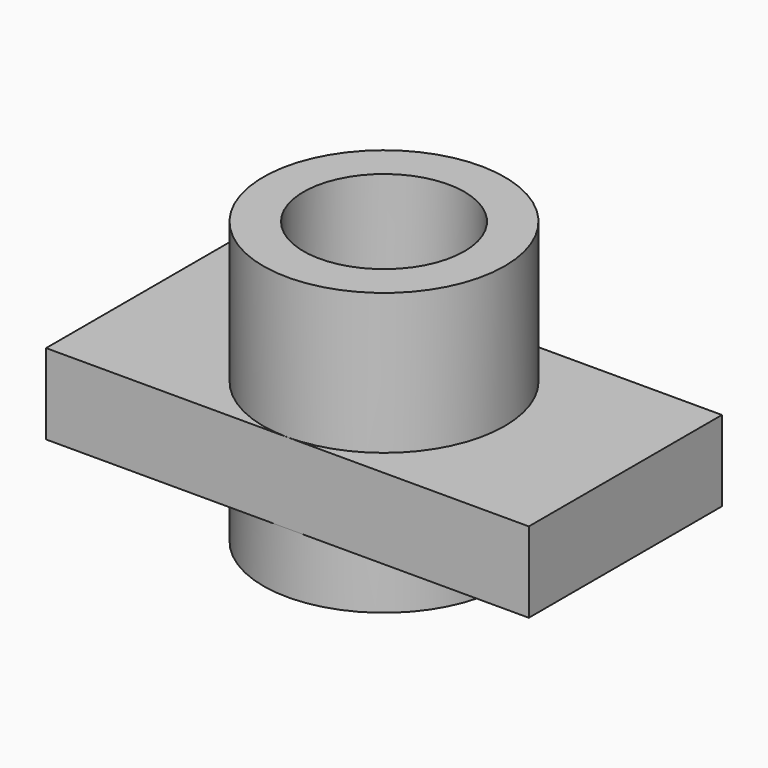
from build123d import *

# Parameters (mm, degrees)
F0_W     = 76.2
F0_H     = 38.1
F1_DEPTH = 12.7
F2_R     = 19.05
F2_R_2   = 12.7
F3_DEPTH = 22.225


with BuildPart() as f1:
    # F0 (on Top) → F1 (new body)
    with BuildSketch(Plane.XY):
        with Locations((38.1, 19.05)):
            Rectangle(F0_W, F0_H)
    extrude(amount=F1_DEPTH)

    # F2 (on face) → F3 (join, symmetric)
    with BuildSketch(Plane.XY.offset(12.7)):
        with Locations((38.1, 19.05)):
            Circle(F2_R)
        with Locations((38.1, 19.05)):
            Circle(F2_R_2, mode=Mode.SUBTRACT)
    extrude(amount=F3_DEPTH, both=True)


solid = f1.part
